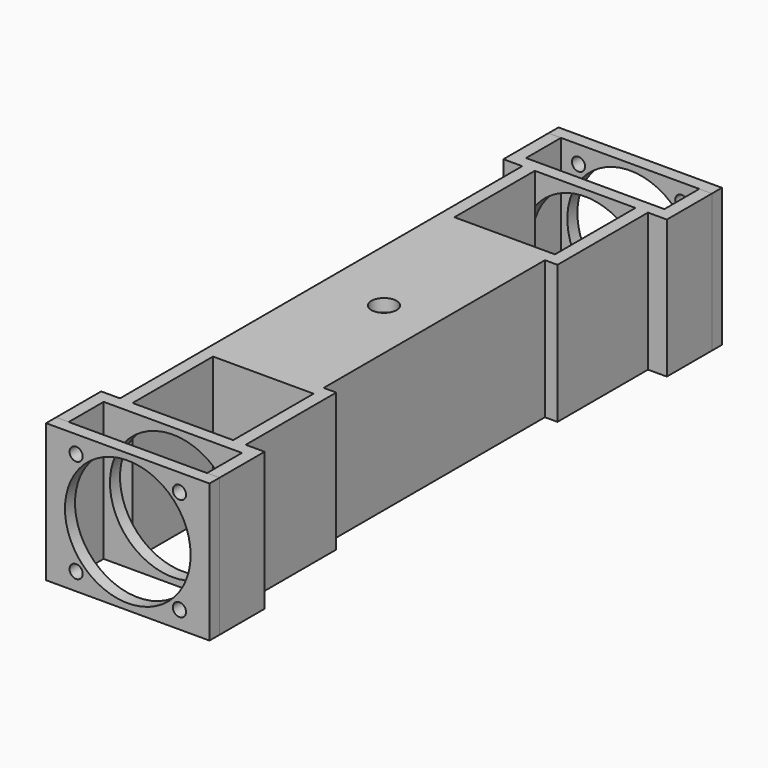
from build123d import *

# Parameters (mm, degrees)
BOX003_W                 = 101.6
BOX003_H                 = 279.4
BOX003_DEPTH             = 12.7
BOX009_W                 = 12.7
BOX009_H                 = 44.1376
BOX009_DEPTH             = 139.7
BOX006_W                 = 12.7
BOX006_H                 = 44.1376
BOX006_DEPTH             = 139.7
BOX007_W                 = 12.7
BOX007_H                 = 44.1376
BOX007_DEPTH             = 139.7
SKETCH002_W              = 165.100117
SKETCH002_H              = 139.700117
SKETCH002_R              = 6.6548
SKETCH002_R_2            = 63.4873
PAD_DEPTH                = 12.7
CLONE001_PLACEMENT_ANGLE = 180
CLONE_PLACEMENT_ANGLE    = 180
BOX010_W                 = 165.1
BOX010_H                 = 12.7
BOX010_DEPTH             = 139.7
SKETCH004_R              = 63.4873
POCKET_DEPTH             = 12.7
BOX008_W                 = 12.7
BOX008_H                 = 44.1376
BOX008_DEPTH             = 139.7
BOX_W                    = 127
BOX_H                    = 114.3
BOX_DEPTH                = 139.7
BOX002_W                 = 12.7
BOX002_H                 = 279.4
BOX002_DEPTH             = 139.7
SKETCH003_R              = 12.7
SKETCH003_W              = 101.6
SKETCH003_H              = 101.6
POCKET003005_DEPTH       = 139.7


with BuildPart() as cube003:
    # Box003 → Box003 (new body)
    with BuildSketch(Plane(origin=(-224.636743, 494.971814, 58.555664), x_dir=(1, 0, 0), z_dir=(0, 0, 1))):
        with Locations((50.8, 139.7)):
            Rectangle(BOX003_W, BOX003_H)
    extrude(amount=BOX003_DEPTH)


with BuildPart() as cube009:
    # Box009 → Box009 (new body)
    with BuildSketch(Plane(origin=(-91.286743, 901.371814, -68.444336), x_dir=(1, 0, 0), z_dir=(0, 0, 1))):
        with Locations((6.35, 22.0688)):
            Rectangle(BOX009_W, BOX009_H)
    extrude(amount=BOX009_DEPTH)


with BuildPart() as cube006:
    # Box006 → Box006 (new body)
    with BuildSketch(Plane(origin=(-243.686743, 323.834214, -68.444336), x_dir=(1, 0, 0), z_dir=(0, 0, 1))):
        with Locations((6.35, 22.0688)):
            Rectangle(BOX006_W, BOX006_H)
    extrude(amount=BOX006_DEPTH)


with BuildPart() as cube007:
    # Box007 → Box007 (new body)
    with BuildSketch(Plane(origin=(-243.686743, 901.371814, -68.444336), x_dir=(1, 0, 0), z_dir=(0, 0, 1))):
        with Locations((6.35, 22.0688)):
            Rectangle(BOX007_W, BOX007_H)
    extrude(amount=BOX007_DEPTH)


with BuildPart() as pad:
    # Sketch002 → Pad (new body)
    with BuildSketch(Plane(origin=(0, 37.338, 0), x_dir=(-1, 0, 0), z_dir=(0, 1, 0))):
        with Locations((-69.215058, 89.86448)):
            Rectangle(SKETCH002_W, SKETCH002_H)
        with Locations((-121.408307, 142.057728)):
            Circle(SKETCH002_R, mode=Mode.SUBTRACT)
        with Locations((-17.02181, 142.057728)):
            Circle(SKETCH002_R, mode=Mode.SUBTRACT)
        with Locations((-17.02181, 37.671231)):
            Circle(SKETCH002_R, mode=Mode.SUBTRACT)
        with Locations((-121.408307, 37.671231)):
            Circle(SKETCH002_R, mode=Mode.SUBTRACT)
        with Locations((-69.215, 89.864421)):
            Circle(SKETCH002_R_2, mode=Mode.SUBTRACT)
    extrude(amount=PAD_DEPTH)


with BuildPart() as clone_of_pad001:
    # Clone001 base: copy of Pad
    add(pad.part)


with BuildPart() as clone_of_pad001_1:
    # Clone001 placement: moved
    add(clone_of_pad001.part.moved(Location((-91.921743, 995.547414, -88.458874))).rotate(Axis((-91.921743, 995.547414, -88.458874), (0, 0, 1)), CLONE001_PLACEMENT_ANGLE))


with BuildPart() as clone_of_pad:
    # Clone base: copy of Pad
    add(pad.part)


with BuildPart() as clone_of_pad_1:
    # Clone placement: moved
    add(clone_of_pad.part.moved(Location((-91.921626, 361.172214, -88.458874))).rotate(Axis((-91.921626, 361.172214, -88.458874), (0, 0, 1)), CLONE_PLACEMENT_ANGLE))


with BuildPart() as pocket:
    # Box010 → Box010 (new body)
    with BuildSketch(Plane(origin=(-102.435181, 88.203278, -436.376007), x_dir=(1, 0, 0), z_dir=(0, 0, 1))):
        with Locations((82.55, 6.35)):
            Rectangle(BOX010_W, BOX010_H)
    extrude(amount=BOX010_DEPTH)

    # Sketch004 → Pocket (cut)
    with BuildSketch(Plane(origin=(-102.435181, 88.203278, -436.376007), x_dir=(1, 0, 0), z_dir=(0, -1, 0))):
        with Locations((82.55, 69.85)):
            Circle(SKETCH004_R)
    extrude(amount=-POCKET_DEPTH, mode=Mode.SUBTRACT)


with BuildPart() as clone_of_pocket003005005:
    # Clone006 base: copy of Pocket
    add(pocket.part)


with BuildPart() as clone_of_pocket003005005_1:
    # Clone006 placement: moved
    add(clone_of_pocket003005005.part.moved(Location((-141.251562, 800.468536, 367.931671))))


with BuildPart() as clone_of_pocket:
    # Clone005 base: copy of Pocket
    add(pocket.part)


with BuildPart() as clone_of_pocket_1:
    # Clone005 placement: moved
    add(clone_of_pocket.part.moved(Location((-141.251562, 279.768536, 367.931671))))


with BuildPart() as cube008:
    # Box008 → Box008 (new body)
    with BuildSketch(Plane(origin=(-91.286743, 323.834214, -68.444336), x_dir=(1, 0, 0), z_dir=(0, 0, 1))):
        with Locations((6.35, 22.0688)):
            Rectangle(BOX008_W, BOX008_H)
    extrude(amount=BOX008_DEPTH)


with BuildPart() as cube:
    # Box → Box (new body)
    with BuildSketch(Plane(origin=(-224.636743, 380.671814, -68.444336), x_dir=(1, 0, 0), z_dir=(0, 0, 1))):
        with Locations((63.5, 57.15)):
            Rectangle(BOX_W, BOX_H)
    extrude(amount=BOX_DEPTH)


with BuildPart() as clone_of_cube:
    # Clone008 base: copy of Cube
    add(cube.part)


with BuildPart() as clone_of_cube_1:
    # Clone008 placement: moved
    add(clone_of_cube.part.moved(Location((0, 393.7, 0))))


with BuildPart() as pocket003005:
    # Box002 → Box002 (new body)
    with BuildSketch(Plane(origin=(-123.036743, 494.971814, -68.444336), x_dir=(1, 0, 0), z_dir=(0, 0, 1))):
        with Locations((6.35, 139.7)):
            Rectangle(BOX002_W, BOX002_H)
    extrude(amount=BOX002_DEPTH)

    # Fusion: union Cube003, Cube009, Cube006, Cube007, Clone of Pad001, Clone of Pad, Clone of Pocket003005005, Clone of Pocket, Cube008, Clone of Cube, Cube
    add(cube003.part)
    add(cube009.part)
    add(cube006.part)
    add(cube007.part)
    add(clone_of_pad001_1.part)
    add(clone_of_pad_1.part)
    add(clone_of_pocket003005005_1.part)
    add(clone_of_pocket_1.part)
    add(cube008.part)
    add(clone_of_cube_1.part)
    add(cube.part)


with BuildPart() as pocket003005_1:
    # Clone009 placement: moved
    add(pocket003005.part.moved(Location((-550.744446, 1129.268555, -180.039734))))

    # Sketch003 → Pocket003005 (cut)
    with BuildSketch(Plane(origin=(-550.744446, 1129.268555, -108.78407), x_dir=(1, 0, 0), z_dir=(0, 0, 1))):
        with Locations((-161.136743, 634.671814)):
            Circle(SKETCH003_R)
        with Locations((-161.136743, 837.871814)):
            Rectangle(SKETCH003_W, SKETCH003_H)
        with Locations((-161.136743, 431.471814)):
            Rectangle(SKETCH003_W, SKETCH003_H)
    extrude(amount=-POCKET003005_DEPTH, mode=Mode.SUBTRACT)


solid = pocket003005_1.part
